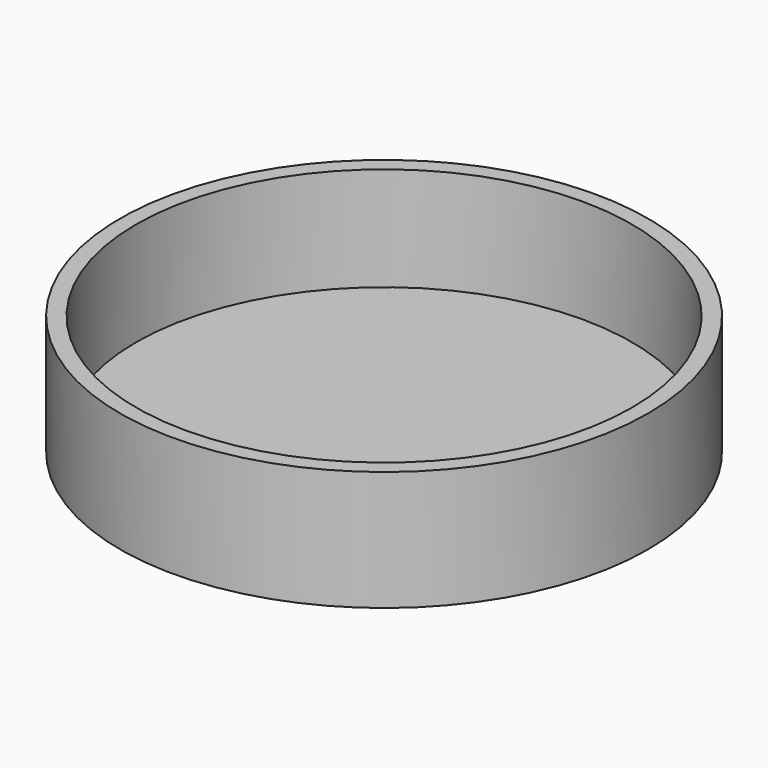
from build123d import *

# Parameters (mm, degrees)
F0_R     = 42.000965
F1_DEPTH = 19.05
F2_DEPTH = 0.029528
F3_T     = -2.54


with BuildPart() as f1:
    # F0 (on Top) → F1 (new body)
    with BuildSketch(Plane.XY):
        Circle(F0_R)
    extrude(amount=F1_DEPTH)

    # F3
    f3_openings = [f1.faces().sort_by_distance(p)[0] for p in [
        (0, 0, 19.05),
    ]]
    offset(amount=F3_T, openings=f3_openings)


with BuildPart() as f2:
    # F0 (on Top) → F2 (new body)
    with BuildSketch(Plane.XY):
        Circle(F0_R)
    extrude(amount=F2_DEPTH)


solid = f1.part
